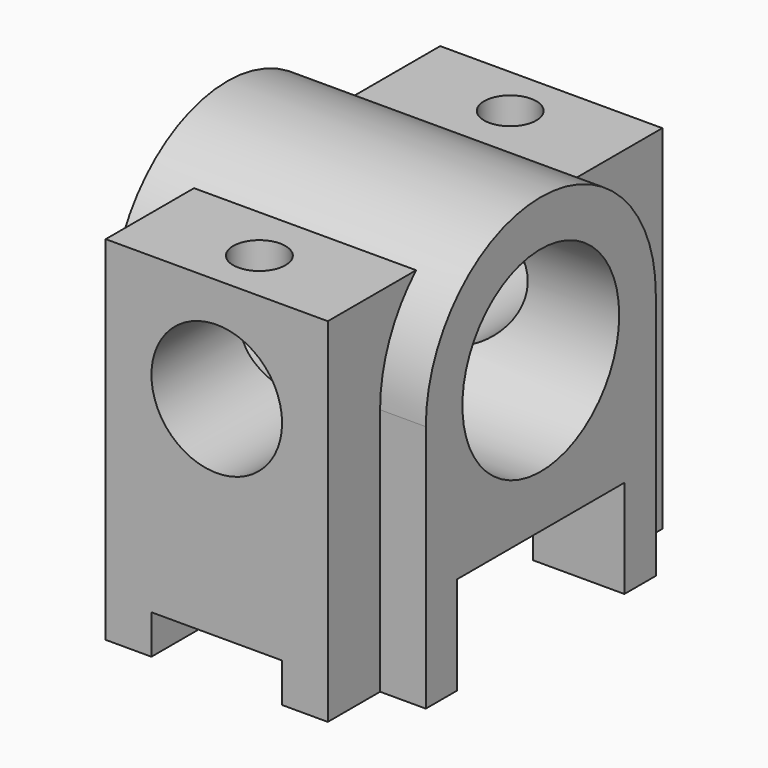
from build123d import *

# Parameters (mm, degrees)
SKETCH_W        = 64
SKETCH_H        = 54
PAD_DEPTH       = 17
SKETCH001_W     = 12.371217
SKETCH001_H     = 20
POCKET_DEPTH    = 64.001
SKETCH002_W     = 32
SKETCH002_H     = 23.71851
POCKET001_DEPTH = 34.001
PAD001_DEPTH    = 24
SKETCH005_R     = 10
POCKET002_DEPTH = 64.001
SKETCH006_W     = 20
SKETCH006_H     = 14.23518
POCKET003_DEPTH = 54.001
SKETCH007_R     = 15
POCKET004_DEPTH = 48.001
SKETCH008_R     = 4
POCKET005_DEPTH = 10


with BuildPart() as pocket001:
    # Sketch → Pad (new body, symmetric)
    with BuildSketch(Plane.YZ):
        with Locations((0, 27)):
            Rectangle(SKETCH_W, SKETCH_H)
    extrude(amount=PAD_DEPTH, both=True)

    # Sketch001 → Pocket (cut, through all)
    with BuildSketch(Plane(origin=(0, -32, 0), x_dir=(0, 0, -1), z_dir=(0, -1, 0))):
        with Locations((0.185608, 0)):
            Rectangle(SKETCH001_W, SKETCH001_H)
    extrude(amount=-POCKET_DEPTH, mode=Mode.SUBTRACT)

    # Sketch002 → Pocket001 (cut, through all)
    with BuildSketch(Plane.YZ.offset(17)):
        with Locations((0, 3.140745)):
            Rectangle(SKETCH002_W, SKETCH002_H)
    extrude(amount=-POCKET001_DEPTH, mode=Mode.SUBTRACT)


with BuildPart() as pocket005:
    # Sketch004 → Pad001 (new body, symmetric)
    with BuildSketch(Plane.YZ):
        with BuildLine():
            Line((-16, 0), (-16, 15))
            Line((-16, 15), (16, 15))
            Line((16, 15), (16, 0))
            Line((16, 0), (22, 0))
            Line((22, 0), (22, 38))
            ThreePointArc((22, 38), (0, 60.000055), (-22, 38))
            Line((-22, 0), (-22, 38))
            Line((-16, 0), (-22, 0))
        make_face()
    extrude(amount=PAD001_DEPTH, both=True)

    # Fusion: union Pocket001
    add(pocket001.part)

    # Sketch005 → Pocket002 (cut, through all)
    with BuildSketch(Plane.XZ.offset(32)):
        with Locations((0, 38)):
            Circle(SKETCH005_R)
    extrude(amount=-POCKET002_DEPTH, mode=Mode.SUBTRACT)

    # Sketch006 → Pocket003 (cut, through all)
    with BuildSketch(Plane.XZ.offset(22)):
        with Locations((0, -1.11759)):
            Rectangle(SKETCH006_W, SKETCH006_H)
    extrude(amount=-POCKET003_DEPTH, mode=Mode.SUBTRACT)

    # Sketch007 → Pocket004 (cut, through all)
    with BuildSketch(Plane.YZ.offset(24)):
        with Locations((0, 38)):
            Circle(SKETCH007_R)
    extrude(amount=-POCKET004_DEPTH, mode=Mode.SUBTRACT)

    # Sketch008 → Pocket005 (cut)
    with BuildSketch(Plane.XY.offset(54)):
        with Locations((0, -23.848572)):
            Circle(SKETCH008_R)
        with Locations((0, 24.151428)):
            Circle(SKETCH008_R)
    extrude(amount=-POCKET005_DEPTH, mode=Mode.SUBTRACT)


solid = pocket005.part
